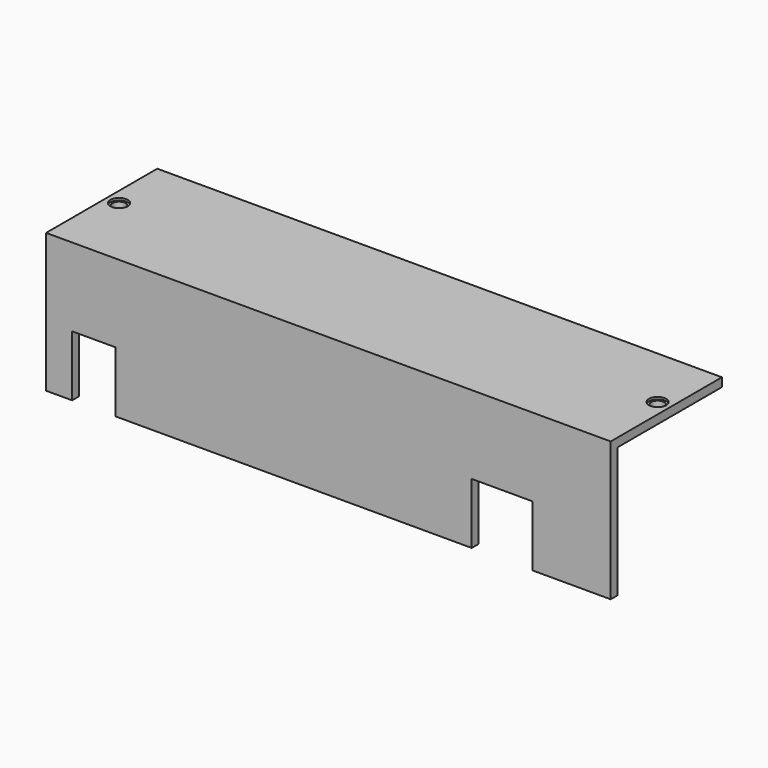
from build123d import *

# Parameters (mm, degrees)
SKETCH021_W         = 130
SKETCH021_H         = 32
PAD009_DEPTH        = 2
HOLE005_D           = 3
HOLE005_DEPTH       = 25
HOLE005_CBORE_D     = 4
HOLE005_CBORE_DEPTH = 0.5
SKETCH023_W         = 130
SKETCH023_H         = 2
PAD010_DEPTH        = 30
SKETCH024_W         = 10
SKETCH024_H         = 15
SKETCH024_W_2       = 14
POCKET004_DEPTH     = 5


with BuildPart() as part:
    # Sketch021 → Pad009 (new body)
    with BuildSketch(Plane.XY.offset(31)):
        with Locations((65, -146.25)):
            Rectangle(SKETCH021_W, SKETCH021_H)
    extrude(amount=PAD009_DEPTH)

    # Hole005
    with Locations(Plane.XY.offset(33)):
        with Locations((3, -145), (127, -145)):
            CounterBoreHole(HOLE005_D / 2, HOLE005_CBORE_D / 2, HOLE005_CBORE_DEPTH, depth=HOLE005_DEPTH)

    # Sketch023 (on Face4 of Hole005) → Pad010 (join)
    with BuildSketch(Plane(origin=(0, 0, 31), x_dir=(1, 0, 0), z_dir=(0, 0, -1))):
        with Locations((65, 161.25)):
            Rectangle(SKETCH023_W, SKETCH023_H)
    extrude(amount=PAD010_DEPTH)

    # Sketch024 (on Face14 of Pad010) → Pocket004 (cut)
    with BuildSketch(Plane.XZ.offset(162.25)):
        with Locations((11, 7.5)):
            Rectangle(SKETCH024_W, SKETCH024_H)
        with Locations((105, 7.5)):
            Rectangle(SKETCH024_W_2, SKETCH024_H)
    extrude(amount=-POCKET004_DEPTH, mode=Mode.SUBTRACT)


solid = part.part
